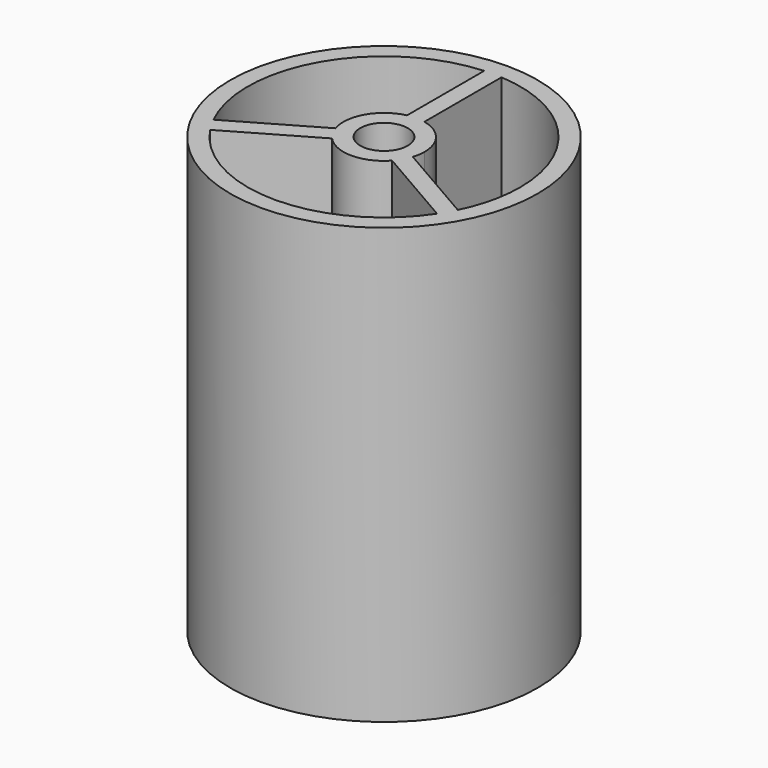
from build123d import *

# Parameters (mm, degrees)
F0_R     = 26.5
F0_R_2   = 4.1
F1_DEPTH = 75


with BuildPart() as f1:
    # F0 (on Top) → F1 (new body)
    with BuildSketch(Plane.XY):
        Circle(F0_R)
        with BuildLine():
            ThreePointArc((0, 23.5), (0.750383, 23.488017), (1.5, 23.452079))
            ThreePointArc((1.5, 23.452079), (17.139137, 16.077935), (23.5, 0))
            ThreePointArc((23.5, 0), (22.881895, -5.354332), (21.060096, -10.427001))
            ThreePointArc((21.060096, -10.427001), (20.351597, -11.75), (19.560096, -13.025078))
            ThreePointArc((19.560096, -13.025078), (0, -23.5), (-19.560096, -13.025078))
            ThreePointArc((-19.560096, -13.025078), (-20.351597, -11.75), (-21.060096, -10.427001))
            ThreePointArc((-21.060096, -10.427001), (-20.351597, 11.75), (-1.5, 23.452079))
            ThreePointArc((-1.5, 23.452079), (-0.750383, 23.488017), (0, 23.5))
        make_face(mode=Mode.SUBTRACT)
        with BuildLine():
            ThreePointArc((-1.5, 6.837397), (-0.754394, 6.959231), (0, 7))
            Line((0, 7), (0, 23.5))
            ThreePointArc((0, 23.5), (-0.750383, 23.488017), (-1.5, 23.452079))
            Line((-1.5, 23.452079), (-1.5, 6.837397))
        make_face()
        with BuildLine():
            ThreePointArc((0, 7), (0.754394, 6.959231), (1.5, 6.837397))
            Line((1.5, 6.837397), (1.5, 23.452079))
            ThreePointArc((1.5, 23.452079), (0.750383, 23.488017), (0, 23.5))
            Line((0, 23.5), (0, 7))
        make_face()
        with BuildLine():
            Line((21.060096, -10.427001), (6.67136, -2.11966))
            ThreePointArc((6.67136, -2.11966), (6.062178, -3.5), (5.17136, -4.717737))
            Line((5.17136, -4.717737), (19.560096, -13.025078))
            ThreePointArc((19.560096, -13.025078), (20.351597, -11.75), (21.060096, -10.427001))
        make_face()
        with BuildLine():
            ThreePointArc((6.67136, -2.11966), (6.917352, -1.072493), (7, 0))
            ThreePointArc((7, 0), (5.454356, 4.387482), (1.5, 6.837397))
            ThreePointArc((1.5, 6.837397), (0.754394, 6.959231), (0, 7))
            ThreePointArc((0, 7), (-0.754394, 6.959231), (-1.5, 6.837397))
            ThreePointArc((-1.5, 6.837397), (-6.062178, 3.5), (-6.67136, -2.11966))
            ThreePointArc((-6.67136, -2.11966), (-6.062178, -3.5), (-5.17136, -4.717737))
            ThreePointArc((-5.17136, -4.717737), (0, -7), (5.17136, -4.717737))
            ThreePointArc((5.17136, -4.717737), (6.062178, -3.5), (6.67136, -2.11966))
        make_face()
        Circle(F0_R_2, mode=Mode.SUBTRACT)
        with BuildLine():
            Line((-19.560096, -13.025078), (-5.17136, -4.717737))
            ThreePointArc((-5.17136, -4.717737), (-6.062178, -3.5), (-6.67136, -2.11966))
            Line((-6.67136, -2.11966), (-21.060096, -10.427001))
            ThreePointArc((-21.060096, -10.427001), (-20.351597, -11.75), (-19.560096, -13.025078))
        make_face()
    extrude(amount=F1_DEPTH)


solid = f1.part
